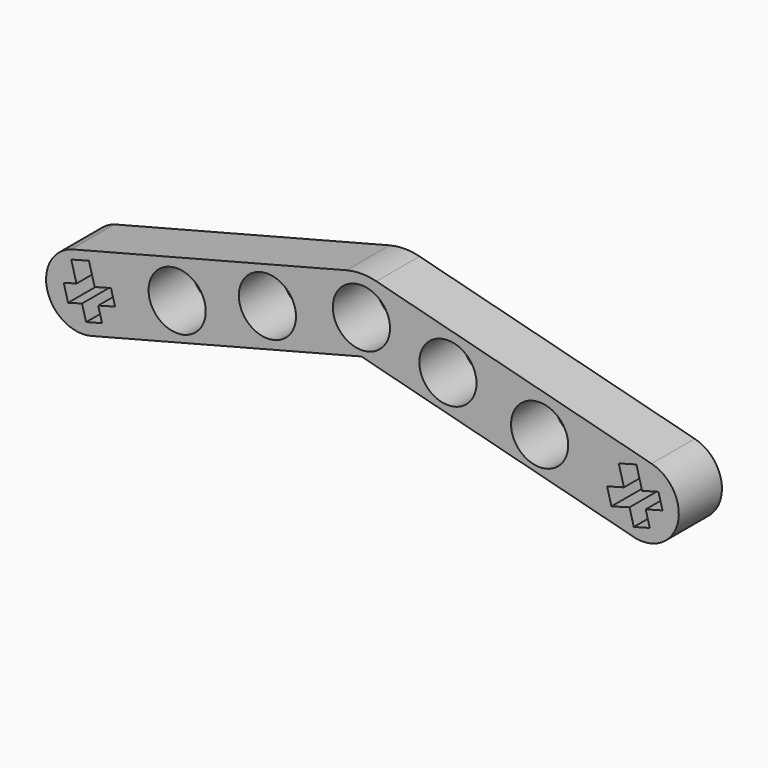
from build123d import *

# Parameters (mm, degrees)
F0_R     = 2.42261
F1_DEPTH = 2.286
F2_R     = 5.08


with BuildPart() as f1:
    # F0 (on Front) → F1 (new body, symmetric)
    with BuildSketch(Plane.XZ):
        with BuildLine():
            Line((0, 6.35), (-24.593444, 0))
            ThreePointArc((-24.593444, 0), (-26.606894, -3.785008), (-22.882334, -5.908193))
            Line((-22.882334, -5.908193), (0, 0))
            Line((0, 0), (22.882336, -5.908194))
            ThreePointArc((22.882336, -5.908194), (26.779601, -3.835026), (24.593444, 0))
            Line((24.593444, 0), (0, 6.35))
        make_face()
        Polygon((-25.233058, -2.70493), (-24.149164, -2.412652), (-24.593444, -0.765068), (-23.096818, -0.361495), (-22.609838, -2.167426), (-21.225002, -1.793997), (-20.880997, -3.069718), (-22.308412, -3.454628), (-21.983574, -4.659269), (-23.335583, -5.023846), (-23.679588, -3.748126), (-24.862724, -4.07829), align=None, mode=Mode.SUBTRACT)
        with Locations((-15.617909, -0.922615)):
            Circle(F0_R, mode=Mode.SUBTRACT)
        Polygon((20.821678, -2.915041), (22.254047, -2.528795), (21.809766, -0.881211), (23.306393, -0.477637), (23.793373, -2.283569), (25.178209, -1.91014), (25.522214, -3.18586), (24.094798, -3.570771), (24.43871, -4.846144), (23.086701, -5.210721), (22.723623, -3.864269), (21.192243, -4.291613), align=None, mode=Mode.SUBTRACT)
        with Locations((15.105182, -0.922615)):
            Circle(F0_R, mode=Mode.SUBTRACT)
        with Locations((-7.967982, 1.174946)):
            Circle(F0_R, mode=Mode.SUBTRACT)
        with Locations((0, 2.902348)):
            Circle(F0_R, mode=Mode.SUBTRACT)
        with Locations((7.33187, 1.174946)):
            Circle(F0_R, mode=Mode.SUBTRACT)
    extrude(amount=F1_DEPTH, both=True)

    # F2
    f2_edges = [f1.edges().sort_by_distance(p)[0] for p in [
        (0, 0, 6.35),
    ]]
    fillet(f2_edges, radius=F2_R)


solid = f1.part
